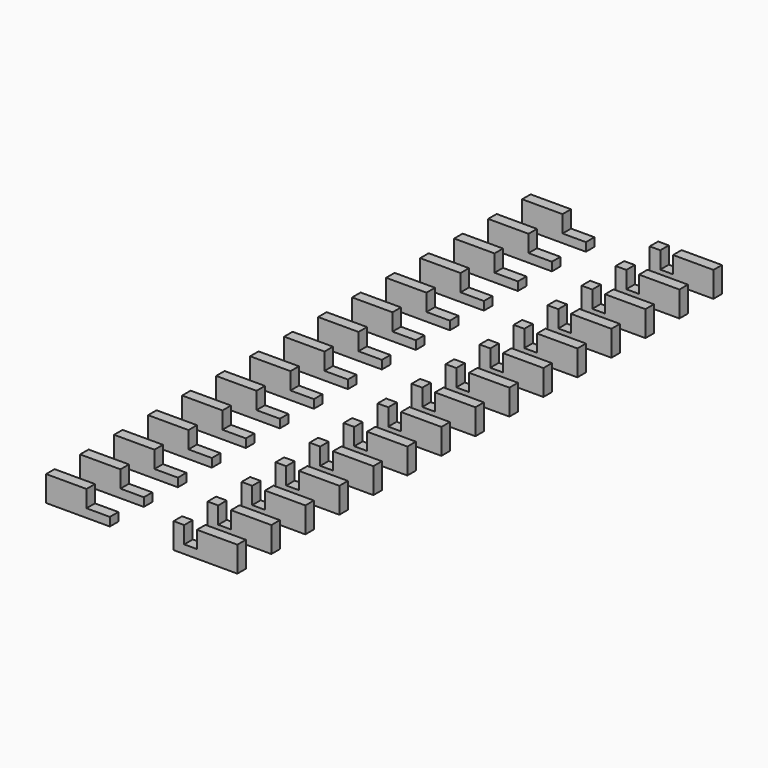
from build123d import *

# Parameters (mm, degrees)
BOX059_W         = 0.3
BOX059_H         = 20
BOX059_DEPTH     = 4
BOX061_W         = 0.1
BOX061_H         = 0.2
BOX061_DEPTH     = 3
ARRAY017_Y_COUNT = 15
ARRAY017_Y_PITCH = 1
BOX060_W         = 1
BOX060_H         = 16
BOX060_DEPTH     = 5.2
BOX055_W         = 1.5
BOX055_H         = 0.25
BOX055_DEPTH     = 0.6
ARRAY016_X_COUNT = 2
ARRAY016_X_PITCH = 3
ARRAY016_Y_COUNT = 15
ARRAY016_Y_PITCH = 1


with BuildPart() as cube033:
    # Box059 → Box059 (new body)
    with BuildSketch(Plane(origin=(1, -10, 0.2), x_dir=(1, 0, 0), z_dir=(0, 0, 1))):
        with Locations((0.15, 10)):
            Rectangle(BOX059_W, BOX059_H)
    extrude(amount=BOX059_DEPTH)


with BuildPart() as cube048:
    # Clone030 base: copy of Cube033
    add(cube033.part)


with BuildPart() as cube048_1:
    # Clone030 placement: moved
    add(cube048.part.moved(Location((-2.3, 0, 0))))


with BuildPart() as array017:
    # Box061 → Box061 (new body)
    with BuildSketch(Plane(origin=(-0.4, -7.1, 2.4), x_dir=(1, 0, 0), z_dir=(0, 0, 1))):
        with Locations((0.05, 0.1)):
            Rectangle(BOX061_W, BOX061_H)
    extrude(amount=BOX061_DEPTH)

    # Array017 Y: Array017 ×15


with BuildPart() as array017_1:
    add(array017.part)
    with Locations(*[(0, i * ARRAY017_Y_PITCH, 0) for i in range(1, ARRAY017_Y_COUNT)]):
        add(array017.part)


with BuildPart() as cut012:
    # Box060 → Box060 (new body)
    with BuildSketch(Plane(origin=(-1.3, -8, 0.2), x_dir=(1, 0, 0), z_dir=(0, 0, 1))):
        with Locations((0.5, 8)):
            Rectangle(BOX060_W, BOX060_H)
    extrude(amount=BOX060_DEPTH)

    # Cut012: cut Array017
    add(array017_1.part, mode=Mode.SUBTRACT)


with BuildPart() as fusion045:
    # Fusion045 base: copy of Cube033
    add(cube033.part)

    # Fusion045: union Cube048, Cut012
    add(cube048_1.part)
    add(cut012.part)


with BuildPart() as pins002:
    # Box055 → Box055 (new body)
    with BuildSketch(Plane(origin=(-2.25, -7.125, 0), x_dir=(1, 0, 0), z_dir=(0, 0, 1))):
        with Locations((0.75, 0.125)):
            Rectangle(BOX055_W, BOX055_H)
    extrude(amount=BOX055_DEPTH)

    # Array016 X: Pins002 ×2


with BuildPart() as pins002_1:
    add(pins002.part)
    with Locations(*[(i * ARRAY016_X_PITCH, 0, 0) for i in range(1, ARRAY016_X_COUNT)]):
        add(pins002.part)

    # Array016 Y: Pins002 ×15


with BuildPart() as pins002_2:
    add(pins002_1.part)
    with Locations(*[(0, i * ARRAY016_Y_PITCH, 0) for i in range(1, ARRAY016_Y_COUNT)]):
        add(pins002_1.part)

    # Cut013: cut Fusion045
    add(fusion045.part, mode=Mode.SUBTRACT)


solid = pins002_2.part
